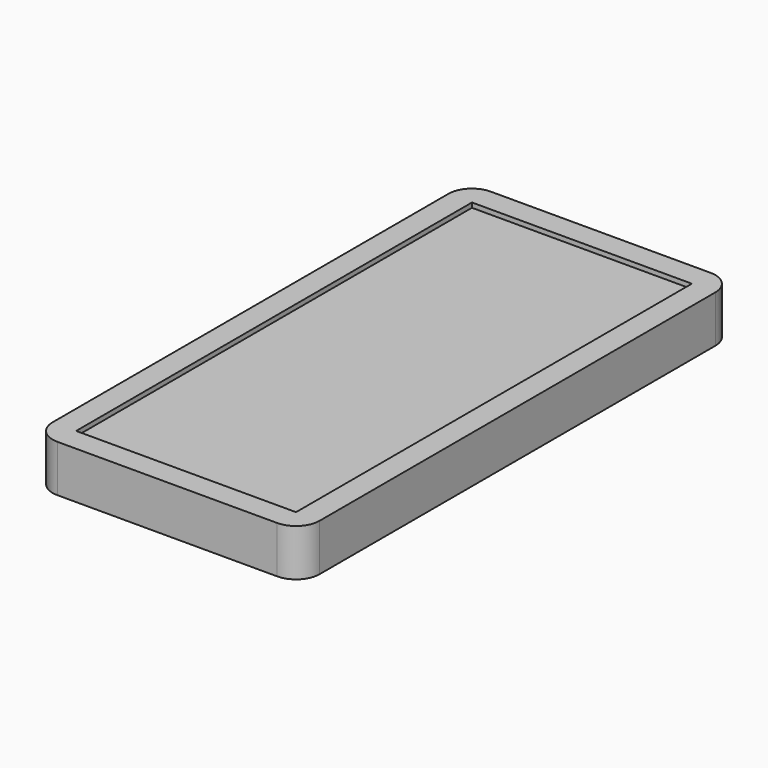
from build123d import *

# Parameters (mm, degrees)
F1_DEPTH = 7
F2_W     = 46.7807637383
F2_H     = 105.2663818344
F3_DEPTH = 2
F4_DEPTH = 3


with BuildPart() as f1:
    # F0 (on Top) → F1 (new body)
    with BuildSketch(Plane.XY):
        with BuildLine():
            Line((19.0969404806, 57.5190660946), (-27.6838232577, 57.5190660946))
            ThreePointArc((-27.6838232577, 57.5190660946), (-31.2193571636, 56.0546000006), (-32.6838232577, 52.5190660946))
            Line((-32.6838232577, 52.5190660946), (-32.6838232577, -52.7473157398))
            ThreePointArc((-32.6838232577, -52.7473157398), (-31.2193571636, -56.2828496457), (-27.6838232577, -57.7473157398))
            Line((-27.6838232577, -57.7473157398), (19.0969404806, -57.7473157398))
            ThreePointArc((19.0969404806, -57.7473157398), (22.6324743865, -56.2828496457), (24.0969404806, -52.7473157398))
            Line((24.0969404806, -52.7473157398), (24.0969404806, 52.5190660946))
            ThreePointArc((24.0969404806, 52.5190660946), (22.6324743865, 56.0546000006), (19.0969404806, 57.5190660946))
        make_face()
    extrude(amount=F1_DEPTH)

    # F2 (on face) → F3 (join)
    with BuildSketch(Plane.XY.offset(7)):
        with Locations((-4.2934413886, -0.1141248226)):
            Rectangle(F2_W, F2_H)
    extrude(amount=F3_DEPTH)

    # F4 (add): a face of the model
    f4_faces = [f1.faces().sort_by_distance(p)[0] for p in [
        (22.8120127039, -0.1141248226, 7),
    ]]
    extrude(f4_faces, amount=F4_DEPTH)


solid = f1.part
